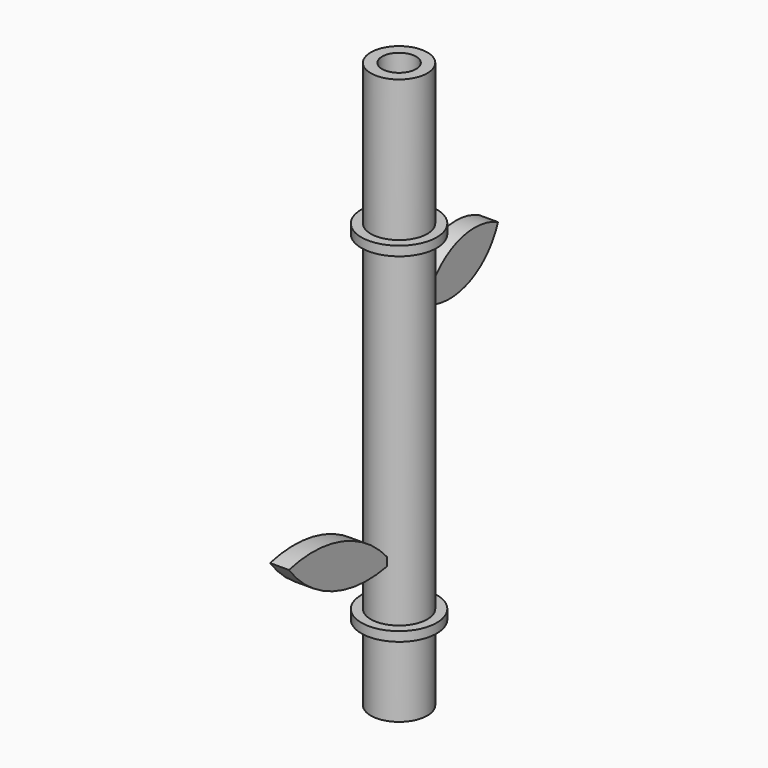
from build123d import *

# Parameters (mm, degrees)
F2_R     = 13
F3_DEPTH = 280
F4_R     = 9
F5_DEPTH = 25
F7_DEPTH = 5


with BuildPart() as f1:
    # F0 (on Front) → F1 (revolve)
    with BuildSketch(Plane.XZ):
        Polygon((0, 41.006801), (0, 116.006801), (-15, 116.006801), (-15, 41.006801), (-20, 41.006801), (-20, 36.006801), (-15, 36.006801), (-15, -138.993199), (-20, -138.993199), (-20, -143.993199), (-15, -143.993199), (-15, -183.993199), (0, -183.993199), (0, -143.993199), (0, -138.993199), (0, 36.006801), align=None)
    revolve(axis=Axis((0, 0, -33.993199), (0, 0, -1)))

    # F2 (on face) → F3 (cut)
    with BuildSketch(Plane(origin=(0, 0, -183.993199), x_dir=(1, 0, 0), z_dir=(0, 0, -1))):
        Circle(F2_R)
    extrude(amount=-F3_DEPTH, mode=Mode.SUBTRACT)

    # F4 (on face) → F5 (cut)
    with BuildSketch(Plane.XY.offset(116.006801)):
        Circle(F4_R)
    extrude(amount=-F5_DEPTH, mode=Mode.SUBTRACT)

    # F6 (on Right) → F7 (join, symmetric)
    with BuildSketch(Plane.YZ):
        with BuildLine():
            ThreePointArc((11.778281, 0), (39.893063, -1.22572), (59.301081, 19.152508))
            ThreePointArc((59.301081, 19.152508), (31.186299, 20.378228), (11.778281, 0))
        make_face()
        with BuildLine():
            ThreePointArc((-11.181168, -111.06737), (-41.605309, -88.759159), (-79.289787, -86.980172))
            ThreePointArc((-79.289787, -86.980172), (-48.865646, -109.288382), (-11.181168, -111.06737))
        make_face()
    extrude(amount=F7_DEPTH, both=True)


solid = f1.part
